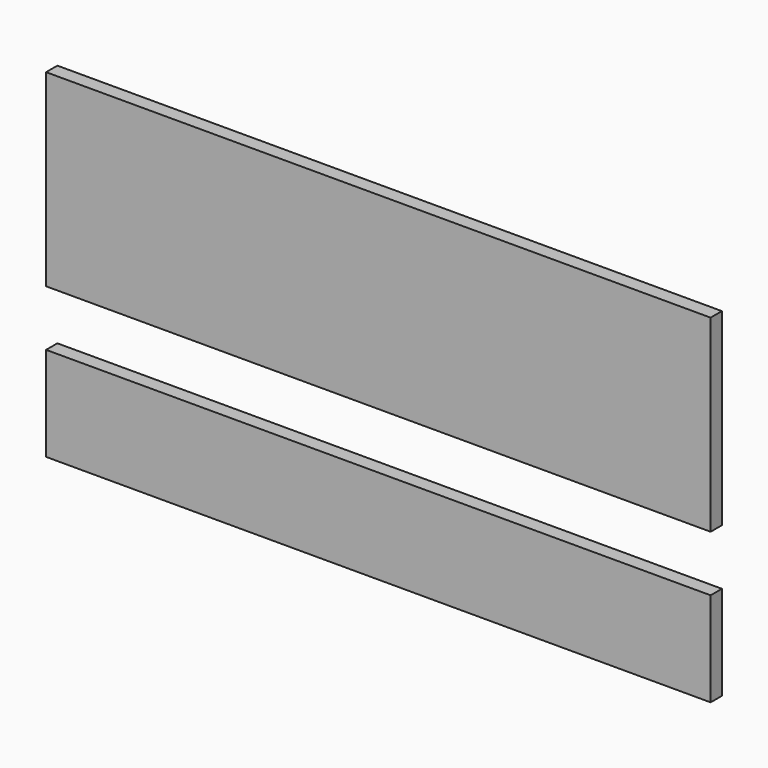
from build123d import *

# Parameters (mm, degrees)
F0_W     = 895.35
F0_H     = 254
F0_H_2   = 127
F1_DEPTH = 19.05


with BuildPart() as f1:
    # F0 (on Front) → F1 (new body)
    with BuildSketch(Plane.XZ):
        with Locations((0, 265.849303)):
            Rectangle(F0_W, F0_H)
        Rectangle(F0_W, F0_H_2)
    extrude(amount=F1_DEPTH)


solid = f1.part
